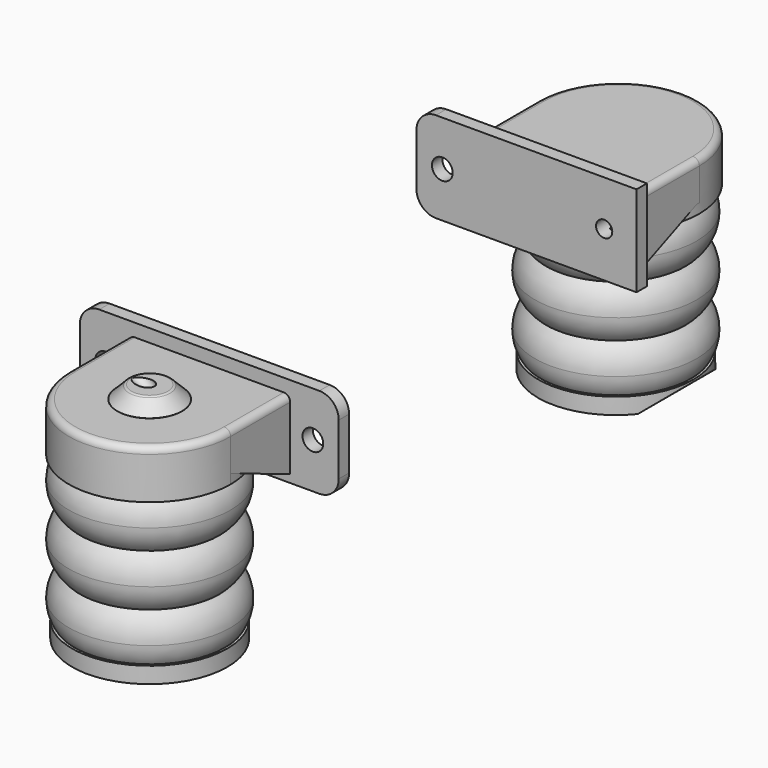
from build123d import *

# Parameters (mm, degrees)
CYLINDER1057_R           = 6
CYLINDER1057_DEPTH       = 36
CYLINDER1056_R           = 10
CYLINDER1056_DEPTH       = 2
CYLINDER1050_R           = 9
CYLINDER1050_DEPTH       = 5
CYLINDER1051_R           = 13
CYLINDER1051_DEPTH       = 1
CYLINDER1054_R           = 10.5
CYLINDER1054_DEPTH       = 3
TORUS004_R               = 5
TORUS005_R               = 5
TORUS003_R               = 5
TORUS001_R               = 5.5
TORUS002_R               = 5.5
TORUS_R                  = 5.5
CYLINDER1053_R           = 11.5
CYLINDER1053_DEPTH       = 1
CYLINDER1081_R           = 6
CYLINDER1081_DEPTH       = 36
CYLINDER1080_R           = 10
CYLINDER1080_DEPTH       = 2
CYLINDER1076_R           = 9
CYLINDER1076_DEPTH       = 5
CYLINDER1077_R           = 13
CYLINDER1077_DEPTH       = 1
CYLINDER1079_R           = 10.5
CYLINDER1079_DEPTH       = 3
TORUS012_R               = 5
TORUS013_R               = 5
TORUS011_R               = 5
TORUS009_R               = 5.5
TORUS010_R               = 5.5
TORUS008_R               = 5.5
CYLINDER1078_R           = 11.5
CYLINDER1078_DEPTH       = 1
CYLINDER1100_R           = 1.25
CYLINDER1100_DEPTH       = 12
CYLINDER1100_ROLL_ANGLE  = -90
CYLINDER1094_R           = 1.6
CYLINDER1094_DEPTH       = 12
CYLINDER1094_ROLL_ANGLE  = -90
CYLINDER1099_R           = 12.5
CYLINDER1099_DEPTH       = 2.5
BOX685_W                 = 1
BOX685_H                 = 13.5
BOX685_DEPTH             = 5
CHAMFER119_SIZE2         = 12
CHAMFER119_SIZE          = 4.99
BOX684_W                 = 1
BOX684_H                 = 13.5
BOX684_DEPTH             = 5
CHAMFER118_SIZE2         = 12
CHAMFER118_SIZE          = 4.99
CYLINDER1092_R           = 13
CYLINDER1092_DEPTH       = 6
CYLINDER1093_R           = 10.5
CYLINDER1093_DEPTH       = 5
CYLINDER1090_R           = 10.5
CYLINDER1090_DEPTH       = 3
CYLINDER1091_R           = 11.75
CYLINDER1091_DEPTH       = 1.5
CYLINDER1089_R           = 12.5
CYLINDER1089_DEPTH       = 6
BOX683_W                 = 34
BOX683_H                 = 2
BOX683_DEPTH             = 14
BOX682_W                 = 25
BOX682_H                 = 13.5
BOX682_DEPTH             = 6
CHAMFER120_SIZE          = 1.2
CYLINDER1097_R           = 8
CYLINDER1097_DEPTH       = 11
CYLINDER1096_R           = 13
CYLINDER1096_DEPTH       = 1
TORUS015_R               = 5.5
CYLINDER1098_R           = 12.5
CYLINDER1098_DEPTH       = 1.5
FILLET407_R              = 3
FILLET408_R              = 1
CYLINDER1115_R           = 1.25
CYLINDER1115_DEPTH       = 14
CYLINDER1111_R           = 13
CYLINDER1111_DEPTH       = 1
TORUS017_R               = 5.5
CYLINDER1112_R           = 12
CYLINDER1112_DEPTH       = 2.5
BOX690_W                 = 10
BOX690_H                 = 20
BOX690_DEPTH             = 10
BOX690_PITCH_ANGLE       = 50
CYLINDER1118_R           = 1.25
CYLINDER1118_DEPTH       = 14
CYLINDER1116_R           = 13
CYLINDER1116_DEPTH       = 1
TORUS018_R               = 5.5
CYLINDER1117_R           = 12
CYLINDER1117_DEPTH       = 2.5
TORUS019_R               = 1.1
TORUS019_ANGLE           = 45
TORUS019_ROLL_ANGLE      = 90.000019
TORUS019_PITCH_ANGLE     = -26.000031
TORUS019_PLACEMENT_ANGLE = -4e-06
TORUS020_R               = 0.6
TORUS020_ANGLE           = 90
TORUS020_ROLL_ANGLE      = 90
CYLINDER1075_R           = 12.5
CYLINDER1075_DEPTH       = 2.5
BOX680_W                 = 1
BOX680_H                 = 13.5
BOX680_DEPTH             = 5
CHAMFER117_SIZE2         = 12
CHAMFER117_SIZE          = 4.99
BOX679_W                 = 1
BOX679_H                 = 13.5
BOX679_DEPTH             = 5
CHAMFER116_SIZE2         = 12
CHAMFER116_SIZE          = 4.99
CYLINDER1070_R           = 1.6
CYLINDER1070_DEPTH       = 12
CYLINDER1070_ROLL_ANGLE  = -90
CYLINDER1071_R           = 1.6
CYLINDER1071_DEPTH       = 12
CYLINDER1071_ROLL_ANGLE  = -90
CYLINDER1069_R           = 10.5
CYLINDER1069_DEPTH       = 5
CYLINDER1068_R           = 13
CYLINDER1068_DEPTH       = 6
CYLINDER1066_R           = 10.5
CYLINDER1066_DEPTH       = 3
CYLINDER1067_R           = 11.75
CYLINDER1067_DEPTH       = 1.5
CYLINDER1065_R           = 12.5
CYLINDER1065_DEPTH       = 6
BOX678_W                 = 40
BOX678_H                 = 2
BOX678_DEPTH             = 14
BOX677_W                 = 25
BOX677_H                 = 13.5
BOX677_DEPTH             = 6
CHAMFER121_SIZE          = 1.2
FILLET409_R              = 3
FILLET410_R              = 1
CYLINDER1073_R           = 8
CYLINDER1073_DEPTH       = 11
CYLINDER1072_R           = 13
CYLINDER1072_DEPTH       = 1
TORUS007_R               = 5.5
CYLINDER1074_R           = 12.5
CYLINDER1074_DEPTH       = 1.5
CYLINDER1119_R           = 5
CYLINDER1119_DEPTH       = 2.5
CHAMFER_SIZE             = 1.99
FILLET_R                 = 0.5


with BuildPart() as cylinder1212:
    # Cylinder1057 → Cylinder1057 (new body)
    with BuildSketch(Plane(origin=(348.5, 40, -34.5), x_dir=(1, 0, 0), z_dir=(0, 0, 1))):
        Circle(CYLINDER1057_R)
    extrude(amount=CYLINDER1057_DEPTH)


with BuildPart() as cylinder1211:
    # Cylinder1056 → Cylinder1056 (new body)
    with BuildSketch(Plane(origin=(348.5, 40, -34.5), x_dir=(1, 0, 0), z_dir=(0, 0, 1))):
        Circle(CYLINDER1056_R)
    extrude(amount=CYLINDER1056_DEPTH)


with BuildPart() as cylinder1207:
    # Cylinder1050 → Cylinder1050 (new body)
    with BuildSketch(Plane(origin=(348.5, 40, -12), x_dir=(1, 0, 0), z_dir=(0, 0, 1))):
        Circle(CYLINDER1050_R)
    extrude(amount=CYLINDER1050_DEPTH)


with BuildPart() as cylinder1208:
    # Cylinder1051 → Cylinder1051 (new body)
    with BuildSketch(Plane(origin=(348.5, 40, -35.5), x_dir=(1, 0, 0), z_dir=(0, 0, 1))):
        Circle(CYLINDER1051_R)
    extrude(amount=CYLINDER1051_DEPTH)


with BuildPart() as cylinder1210:
    # Cylinder1054 → Cylinder1054 (new body)
    with BuildSketch(Plane(origin=(348.5, 40, -10), x_dir=(1, 0, 0), z_dir=(0, 0, 1))):
        Circle(CYLINDER1054_R)
    extrude(amount=CYLINDER1054_DEPTH)


with BuildPart() as torus004:
    # Torus004 → Torus004 (revolve)
    with BuildSketch(Plane(origin=(348.5, 40, -22), x_dir=(1, 0, 0), z_dir=(0, -1, 0))):
        with Locations((7, 0)):
            Circle(TORUS004_R)
    revolve(axis=Axis((348.5, 40, -22), (0, 0, 1)))


with BuildPart() as torus005:
    # Torus005 → Torus005 (revolve)
    with BuildSketch(Plane(origin=(348.5, 40, -14), x_dir=(1, 0, 0), z_dir=(0, -1, 0))):
        with Locations((7, 0)):
            Circle(TORUS005_R)
    revolve(axis=Axis((348.5, 40, -14), (0, 0, 1)))


with BuildPart() as fusion705:
    # Torus003 → Torus003 (revolve)
    with BuildSketch(Plane(origin=(348.5, 40, -30), x_dir=(1, 0, 0), z_dir=(0, -1, 0))):
        with Locations((7, 0)):
            Circle(TORUS003_R)
    revolve(axis=Axis((348.5, 40, -30), (0, 0, 1)))

    # Fusion705: union Torus004, Torus005
    add(torus004.part)
    add(torus005.part)


with BuildPart() as torus001:
    # Torus001 → Torus001 (revolve)
    with BuildSketch(Plane(origin=(348.5, 40, -22), x_dir=(1, 0, 0), z_dir=(0, -1, 0))):
        with Locations((7, 0)):
            Circle(TORUS001_R)
    revolve(axis=Axis((348.5, 40, -22), (0, 0, 1)))


with BuildPart() as torus002:
    # Torus002 → Torus002 (revolve)
    with BuildSketch(Plane(origin=(348.5, 40, -14), x_dir=(1, 0, 0), z_dir=(0, -1, 0))):
        with Locations((7, 0)):
            Circle(TORUS002_R)
    revolve(axis=Axis((348.5, 40, -14), (0, 0, 1)))


with BuildPart() as cut014210:
    # Torus → Torus (revolve)
    with BuildSketch(Plane(origin=(348.5, 40, -30), x_dir=(1, 0, 0), z_dir=(0, -1, 0))):
        with Locations((7, 0)):
            Circle(TORUS_R)
    revolve(axis=Axis((348.5, 40, -30), (0, 0, 1)))

    # Fusion704: union Torus001, Torus002
    add(torus001.part)
    add(torus002.part)

    # Cut014209: cut Fusion705
    add(fusion705.part, mode=Mode.SUBTRACT)

    # Fusion706: union Cylinder1210
    add(cylinder1210.part)

    # Cut014210: cut Cylinder1208
    add(cylinder1208.part, mode=Mode.SUBTRACT)


with BuildPart() as obj1:
    # Cylinder1053 → Cylinder1053 (new body)
    with BuildSketch(Plane(origin=(348.5, 40, -8), x_dir=(1, 0, 0), z_dir=(0, 0, 1))):
        Circle(CYLINDER1053_R)
    extrude(amount=CYLINDER1053_DEPTH)

    # Fusion707: union Cut014210
    add(cut014210.part)

    # Cut014211: cut Cylinder1207
    add(cylinder1207.part, mode=Mode.SUBTRACT)

    # Fusion708: union Cylinder1211
    add(cylinder1211.part)

    # Cut014212: cut Cylinder1212
    add(cylinder1212.part, mode=Mode.SUBTRACT)


with BuildPart() as cylinder1229:
    # Cylinder1081 → Cylinder1081 (new body)
    with BuildSketch(Plane(origin=(348.5, 40, -34.5), x_dir=(1, 0, 0), z_dir=(0, 0, 1))):
        Circle(CYLINDER1081_R)
    extrude(amount=CYLINDER1081_DEPTH)


with BuildPart() as cylinder1228:
    # Cylinder1080 → Cylinder1080 (new body)
    with BuildSketch(Plane(origin=(348.5, 40, -34.5), x_dir=(1, 0, 0), z_dir=(0, 0, 1))):
        Circle(CYLINDER1080_R)
    extrude(amount=CYLINDER1080_DEPTH)


with BuildPart() as cylinder1224:
    # Cylinder1076 → Cylinder1076 (new body)
    with BuildSketch(Plane(origin=(348.5, 40, -12), x_dir=(1, 0, 0), z_dir=(0, 0, 1))):
        Circle(CYLINDER1076_R)
    extrude(amount=CYLINDER1076_DEPTH)


with BuildPart() as cylinder1225:
    # Cylinder1077 → Cylinder1077 (new body)
    with BuildSketch(Plane(origin=(348.5, 40, -35.5), x_dir=(1, 0, 0), z_dir=(0, 0, 1))):
        Circle(CYLINDER1077_R)
    extrude(amount=CYLINDER1077_DEPTH)


with BuildPart() as cylinder1227:
    # Cylinder1079 → Cylinder1079 (new body)
    with BuildSketch(Plane(origin=(348.5, 40, -10), x_dir=(1, 0, 0), z_dir=(0, 0, 1))):
        Circle(CYLINDER1079_R)
    extrude(amount=CYLINDER1079_DEPTH)


with BuildPart() as torus012:
    # Torus012 → Torus012 (revolve)
    with BuildSketch(Plane(origin=(348.5, 40, -22), x_dir=(1, 0, 0), z_dir=(0, -1, 0))):
        with Locations((7, 0)):
            Circle(TORUS012_R)
    revolve(axis=Axis((348.5, 40, -22), (0, 0, 1)))


with BuildPart() as torus013:
    # Torus013 → Torus013 (revolve)
    with BuildSketch(Plane(origin=(348.5, 40, -14), x_dir=(1, 0, 0), z_dir=(0, -1, 0))):
        with Locations((7, 0)):
            Circle(TORUS013_R)
    revolve(axis=Axis((348.5, 40, -14), (0, 0, 1)))


with BuildPart() as fusion717:
    # Torus011 → Torus011 (revolve)
    with BuildSketch(Plane(origin=(348.5, 40, -30), x_dir=(1, 0, 0), z_dir=(0, -1, 0))):
        with Locations((7, 0)):
            Circle(TORUS011_R)
    revolve(axis=Axis((348.5, 40, -30), (0, 0, 1)))

    # Fusion717: union Torus012, Torus013
    add(torus012.part)
    add(torus013.part)


with BuildPart() as torus009:
    # Torus009 → Torus009 (revolve)
    with BuildSketch(Plane(origin=(348.5, 40, -22), x_dir=(1, 0, 0), z_dir=(0, -1, 0))):
        with Locations((7, 0)):
            Circle(TORUS009_R)
    revolve(axis=Axis((348.5, 40, -22), (0, 0, 1)))


with BuildPart() as torus010:
    # Torus010 → Torus010 (revolve)
    with BuildSketch(Plane(origin=(348.5, 40, -14), x_dir=(1, 0, 0), z_dir=(0, -1, 0))):
        with Locations((7, 0)):
            Circle(TORUS010_R)
    revolve(axis=Axis((348.5, 40, -14), (0, 0, 1)))


with BuildPart() as cut014226:
    # Torus008 → Torus008 (revolve)
    with BuildSketch(Plane(origin=(348.5, 40, -30), x_dir=(1, 0, 0), z_dir=(0, -1, 0))):
        with Locations((7, 0)):
            Circle(TORUS008_R)
    revolve(axis=Axis((348.5, 40, -30), (0, 0, 1)))

    # Fusion716: union Torus009, Torus010
    add(torus009.part)
    add(torus010.part)

    # Cut014225: cut Fusion717
    add(fusion717.part, mode=Mode.SUBTRACT)

    # Fusion718: union Cylinder1227
    add(cylinder1227.part)

    # Cut014226: cut Cylinder1225
    add(cylinder1225.part, mode=Mode.SUBTRACT)


with BuildPart() as obj2:
    # Cylinder1078 → Cylinder1078 (new body)
    with BuildSketch(Plane(origin=(348.5, 40, -8), x_dir=(1, 0, 0), z_dir=(0, 0, 1))):
        Circle(CYLINDER1078_R)
    extrude(amount=CYLINDER1078_DEPTH)

    # Fusion719: union Cut014226
    add(cut014226.part)

    # Cut014227: cut Cylinder1224
    add(cylinder1224.part, mode=Mode.SUBTRACT)

    # Fusion720: union Cylinder1228
    add(cylinder1228.part)

    # Cut014228: cut Cylinder1229
    add(cylinder1229.part, mode=Mode.SUBTRACT)


with BuildPart() as obj2_1:
    # Cut014228 placement: moved
    add(obj2.part.moved(Location((0, 90, 0))))


with BuildPart() as cylinder1251:
    # Cylinder1100 → Cylinder1100 (new body)
    with BuildSketch(Plane.XY):
        Circle(CYLINDER1100_R)
    extrude(amount=CYLINDER1100_DEPTH)


with BuildPart() as cylinder1251_1:
    # Cylinder1100 roll: moved
    add(cylinder1251.part.rotate(Axis((0, 0, 0), (1, 0, 0)), CYLINDER1100_ROLL_ANGLE))


with BuildPart() as cylinder1251_2:
    # Cylinder1100 placement: moved
    add(cylinder1251_1.part.moved(Location((357.5, 109, -8))))


with BuildPart() as fusion729:
    # Cylinder1094 → Cylinder1094 (new body)
    with BuildSketch(Plane.XY):
        Circle(CYLINDER1094_R)
    extrude(amount=CYLINDER1094_DEPTH)


with BuildPart() as fusion729_1:
    # Cylinder1094 roll: moved
    add(fusion729.part.rotate(Axis((0, 0, 0), (1, 0, 0)), CYLINDER1094_ROLL_ANGLE))


with BuildPart() as fusion729_2:
    # Cylinder1094 placement: moved
    add(fusion729_1.part.moved(Location((332.5, 109, -8))))

    # Fusion729: union Cylinder1251
    add(cylinder1251_2.part)


with BuildPart() as cylinder1250:
    # Cylinder1099 → Cylinder1099 (new body)
    with BuildSketch(Plane(origin=(348.5, 40, -12.5), x_dir=(1, 0, 0), z_dir=(0, 0, 1))):
        Circle(CYLINDER1099_R)
    extrude(amount=CYLINDER1099_DEPTH)


with BuildPart() as chamfer119:
    # Box685 → Box685 (new body)
    with BuildSketch(Plane(origin=(336.5, 40, -15), x_dir=(1, 0, 0), z_dir=(0, 0, 1))):
        with Locations((0.5, 6.75)):
            Rectangle(BOX685_W, BOX685_H)
    extrude(amount=BOX685_DEPTH)

    # Chamfer119
    chamfer119_edges = [chamfer119.edges().sort_by_distance(p)[0] for p in [
        (337, 40, -15),
    ]]
    chamfer119_side = chamfer119.faces().sort_by_distance((337, 40, -12.5))[0]
    chamfer(chamfer119_edges, length=CHAMFER119_SIZE, length2=CHAMFER119_SIZE2, reference=chamfer119_side)


with BuildPart() as chamfer119_1:
    # Chamfer119 placement: moved
    add(chamfer119.part.moved(Location((24, 0, 0))))


with BuildPart() as cut014241:
    # Box684 → Box684 (new body)
    with BuildSketch(Plane(origin=(336.5, 40, -15), x_dir=(1, 0, 0), z_dir=(0, 0, 1))):
        with Locations((0.5, 6.75)):
            Rectangle(BOX684_W, BOX684_H)
    extrude(amount=BOX684_DEPTH)

    # Chamfer118
    chamfer118_edges = [cut014241.edges().sort_by_distance(p)[0] for p in [
        (337, 40, -15),
    ]]
    chamfer118_side = cut014241.faces().sort_by_distance((337, 40, -12.5))[0]
    chamfer(chamfer118_edges, length=CHAMFER118_SIZE, length2=CHAMFER118_SIZE2, reference=chamfer118_side)

    # Fusion726: union Chamfer119
    add(chamfer119_1.part)


with BuildPart() as cut014241_1:
    # Fusion726 placement: moved
    add(cut014241.part.moved(Location((-0.5, 0, 0))))

    # Cut014241: cut Cylinder1250
    add(cylinder1250.part, mode=Mode.SUBTRACT)


with BuildPart() as part_mirroring093:
    # Part__Mirroring093: instance of Cut014241
    add(cut014241_1.part.mirror(Plane(origin=(0, 0, 0), x_dir=(1, 0, 0), z_dir=(0, 1, 0))))


with BuildPart() as part_mirroring093_1:
    # Part__Mirroring093 placement: moved
    add(part_mirroring093.part.moved(Location((0, 170, 1))))


with BuildPart() as cylinder1243:
    # Cylinder1092 → Cylinder1092 (new body)
    with BuildSketch(Plane(origin=(348.5, 130.5, -15), x_dir=(1, 0, 0), z_dir=(0, 0, 1))):
        Circle(CYLINDER1092_R)
    extrude(amount=CYLINDER1092_DEPTH)


with BuildPart() as cylinder1244:
    # Cylinder1093 → Cylinder1093 (new body)
    with BuildSketch(Plane(origin=(348.5, 130.5, -8.5), x_dir=(1, 0, 0), z_dir=(0, 0, 1))):
        Circle(CYLINDER1093_R)
    extrude(amount=CYLINDER1093_DEPTH)


with BuildPart() as cylinder1241:
    # Cylinder1090 → Cylinder1090 (new body)
    with BuildSketch(Plane(origin=(348.5, 40, -10), x_dir=(1, 0, 0), z_dir=(0, 0, 1))):
        Circle(CYLINDER1090_R)
    extrude(amount=CYLINDER1090_DEPTH)


with BuildPart() as fusion723:
    # Cylinder1091 → Cylinder1091 (new body)
    with BuildSketch(Plane(origin=(348.5, 40, -8.25), x_dir=(1, 0, 0), z_dir=(0, 0, 1))):
        Circle(CYLINDER1091_R)
    extrude(amount=CYLINDER1091_DEPTH)

    # Fusion723: union Cylinder1241
    add(cylinder1241.part)


with BuildPart() as fusion723_1:
    # Fusion723 placement: moved
    add(fusion723.part.moved(Location((0, 90.5, 1))))


with BuildPart() as cylinder1240:
    # Cylinder1089 → Cylinder1089 (new body)
    with BuildSketch(Plane(origin=(348.5, 130.5, -9), x_dir=(1, 0, 0), z_dir=(0, 0, 1))):
        Circle(CYLINDER1089_R)
    extrude(amount=CYLINDER1089_DEPTH)


with BuildPart() as cube874:
    # Box683 → Box683 (new body)
    with BuildSketch(Plane(origin=(328.5, 116.5, -15), x_dir=(1, 0, 0), z_dir=(0, 0, 1))):
        with Locations((17, 1)):
            Rectangle(BOX683_W, BOX683_H)
    extrude(amount=BOX683_DEPTH)


with BuildPart() as cut014252:
    # Box682 → Box682 (new body)
    with BuildSketch(Plane(origin=(336, 117, -9), x_dir=(1, 0, 0), z_dir=(0, 0, 1))):
        with Locations((12.5, 6.75)):
            Rectangle(BOX682_W, BOX682_H)
    extrude(amount=BOX682_DEPTH)

    # Fusion732: union Cylinder1240, Cube874
    add(cylinder1240.part)
    add(cube874.part)

    # Cut014250: cut Fusion723
    add(fusion723_1.part, mode=Mode.SUBTRACT)

    # Cut014251: cut Cylinder1244
    add(cylinder1244.part, mode=Mode.SUBTRACT)

    # Chamfer120
    chamfer120_edges = [cut014252.edges().sort_by_distance(p)[0] for p in [
        (338, 130.5, -7.25),
    ]]
    chamfer(chamfer120_edges, length=CHAMFER120_SIZE)

    # Cut014252: cut Cylinder1243
    add(cylinder1243.part, mode=Mode.SUBTRACT)


with BuildPart() as cylinder1248:
    # Cylinder1097 → Cylinder1097 (new body)
    with BuildSketch(Plane(origin=(348.5, 40, -13.5), x_dir=(1, 0, 0), z_dir=(0, 0, 1))):
        Circle(CYLINDER1097_R)
    extrude(amount=CYLINDER1097_DEPTH)


with BuildPart() as cylinder1247:
    # Cylinder1096 → Cylinder1096 (new body)
    with BuildSketch(Plane(origin=(348.5, 40, -25.5), x_dir=(1, 0, 0), z_dir=(0, 0, 1))):
        Circle(CYLINDER1096_R)
    extrude(amount=CYLINDER1096_DEPTH)


with BuildPart() as cut014238:
    # Torus015 → Torus015 (revolve)
    with BuildSketch(Plane(origin=(348.5, 40, -30), x_dir=(1, 0, 0), z_dir=(0, -1, 0))):
        with Locations((7, 0)):
            Circle(TORUS015_R)
    revolve(axis=Axis((348.5, 40, -30), (0, 0, 1)))

    # Cut014238: cut Cylinder1247
    add(cylinder1247.part, mode=Mode.SUBTRACT)


with BuildPart() as cut014238_1:
    # Cut014238 placement: moved
    add(cut014238.part.moved(Location((0, 0, 16))))


with BuildPart() as fillet408:
    # Cylinder1098 → Cylinder1098 (new body)
    with BuildSketch(Plane(origin=(348.5, 40, -11.5), x_dir=(1, 0, 0), z_dir=(0, 0, 1))):
        Circle(CYLINDER1098_R)
    extrude(amount=CYLINDER1098_DEPTH)

    # Cut014239: cut Cut014238
    add(cut014238_1.part, mode=Mode.SUBTRACT)

    # Cut014240: cut Cylinder1248
    add(cylinder1248.part, mode=Mode.SUBTRACT)


with BuildPart() as fillet408_1:
    # Cut014240 placement: moved
    add(fillet408.part.moved(Location((0, 90.5, 1))))

    # Fusion733: union Part__Mirroring093, Cut014252
    add(part_mirroring093_1.part)
    add(cut014252.part)

    # Cut014253: cut Fusion729
    add(fusion729_2.part, mode=Mode.SUBTRACT)

    # Fillet407
    fillet407_edges = [fillet408_1.edges().sort_by_distance(p)[0] for p in [
        (328.5, 117.5, -15),
        (328.5, 117.5, -1),
    ]]
    fillet(fillet407_edges, radius=FILLET407_R)

    # Fillet408
    fillet408_edges = [fillet408_1.edges().sort_by_distance(p)[0] for p in [
        (348.5, 143, -3),
    ]]
    fillet(fillet408_edges, radius=FILLET408_R)


with BuildPart() as cylinder1282:
    # Cylinder1115 → Cylinder1115 (new body)
    with BuildSketch(Plane(origin=(348.5, 40, -35.5), x_dir=(1, 0, 0), z_dir=(0, 0, 1))):
        Circle(CYLINDER1115_R)
    extrude(amount=CYLINDER1115_DEPTH)


with BuildPart() as cone:
    # Cone → Cone (revolve)
    with BuildSketch(Plane(origin=(348.5, 40, -34.5), x_dir=(1, 0, 0), z_dir=(0, -1, 0))):
        Polygon((0, 0), (5.5, 0), (4, 13), (0, 13), align=None)
    revolve(axis=Axis((348.5, 40, -34.5), (0, 0, 1)))


with BuildPart() as cylinder1278:
    # Cylinder1111 → Cylinder1111 (new body)
    with BuildSketch(Plane(origin=(348.5, 40, -35.5), x_dir=(1, 0, 0), z_dir=(0, 0, 1))):
        Circle(CYLINDER1111_R)
    extrude(amount=CYLINDER1111_DEPTH)


with BuildPart() as cut014264:
    # Torus017 → Torus017 (revolve)
    with BuildSketch(Plane(origin=(348.5, 40, -30), x_dir=(1, 0, 0), z_dir=(0, -1, 0))):
        with Locations((7, 0)):
            Circle(TORUS017_R)
    revolve(axis=Axis((348.5, 40, -30), (0, 0, 1)))

    # Cut014264: cut Cylinder1278
    add(cylinder1278.part, mode=Mode.SUBTRACT)


with BuildPart() as obj1_plate:
    # Cylinder1112 → Cylinder1112 (new body)
    with BuildSketch(Plane(origin=(348.5, 40, -35.5), x_dir=(1, 0, 0), z_dir=(0, 0, 1))):
        Circle(CYLINDER1112_R)
    extrude(amount=CYLINDER1112_DEPTH)

    # Cut014265: cut Cut014264
    add(cut014264.part, mode=Mode.SUBTRACT)

    # Fusion739: union Cone
    add(cone.part)

    # Cut014266: cut Cylinder1282
    add(cylinder1282.part, mode=Mode.SUBTRACT)


with BuildPart() as cube881:
    # Box690 → Box690 (new body)
    with BuildSketch(Plane.XY):
        with Locations((5, 10)):
            Rectangle(BOX690_W, BOX690_H)
    extrude(amount=BOX690_DEPTH)


with BuildPart() as cube881_1:
    # Box690 pitch: moved
    add(cube881.part.rotate(Axis((0, 0, 0), (0, 1, 0)), BOX690_PITCH_ANGLE))


with BuildPart() as cube881_2:
    # Box690 placement: moved
    add(cube881_1.part.moved(Location((355.5, 121, -37.5))))


with BuildPart() as cylinder1288:
    # Cylinder1118 → Cylinder1118 (new body)
    with BuildSketch(Plane(origin=(348.5, 40, -35.5), x_dir=(1, 0, 0), z_dir=(0, 0, 1))):
        Circle(CYLINDER1118_R)
    extrude(amount=CYLINDER1118_DEPTH)


with BuildPart() as cone001:
    # Cone001 → Cone001 (revolve)
    with BuildSketch(Plane(origin=(348.5, 40, -34.5), x_dir=(1, 0, 0), z_dir=(0, -1, 0))):
        Polygon((0, 0), (5.5, 0), (4, 13), (0, 13), align=None)
    revolve(axis=Axis((348.5, 40, -34.5), (0, 0, 1)))


with BuildPart() as cylinder1286:
    # Cylinder1116 → Cylinder1116 (new body)
    with BuildSketch(Plane(origin=(348.5, 40, -35.5), x_dir=(1, 0, 0), z_dir=(0, 0, 1))):
        Circle(CYLINDER1116_R)
    extrude(amount=CYLINDER1116_DEPTH)


with BuildPart() as cut014267:
    # Torus018 → Torus018 (revolve)
    with BuildSketch(Plane(origin=(348.5, 40, -30), x_dir=(1, 0, 0), z_dir=(0, -1, 0))):
        with Locations((7, 0)):
            Circle(TORUS018_R)
    revolve(axis=Axis((348.5, 40, -30), (0, 0, 1)))

    # Cut014267: cut Cylinder1286
    add(cylinder1286.part, mode=Mode.SUBTRACT)


with BuildPart() as obj2_plate:
    # Cylinder1117 → Cylinder1117 (new body)
    with BuildSketch(Plane(origin=(348.5, 40, -35.5), x_dir=(1, 0, 0), z_dir=(0, 0, 1))):
        Circle(CYLINDER1117_R)
    extrude(amount=CYLINDER1117_DEPTH)

    # Cut014268: cut Cut014267
    add(cut014267.part, mode=Mode.SUBTRACT)

    # Fusion740: union Cone001
    add(cone001.part)

    # Cut014269: cut Cylinder1288
    add(cylinder1288.part, mode=Mode.SUBTRACT)


with BuildPart() as obj2_plate_1:
    # Cut014269 placement: moved
    add(obj2_plate.part.moved(Location((0, 90, 0))))

    # Cut014270: cut Cube881
    add(cube881_2.part, mode=Mode.SUBTRACT)


with BuildPart() as torus019:
    # Torus019 → Torus019 (revolve)
    with BuildSketch(Plane.XZ):
        with Locations((5.5, 0)):
            Circle(TORUS019_R)
    revolve(axis=Axis((0, 0, 0), (0, 0, 1)), revolution_arc=TORUS019_ANGLE)


with BuildPart() as torus019_1:
    # Torus019 roll: moved
    add(torus019.part.rotate(Axis((0, 0, 0), (1, 0, 0)), TORUS019_ROLL_ANGLE))


with BuildPart() as torus019_2:
    # Torus019 pitch: moved
    add(torus019_1.part.rotate(Axis((0, 0, 0), (0, 1, 0)), TORUS019_PITCH_ANGLE))


with BuildPart() as torus019_3:
    # Torus019 placement: moved
    add(torus019_2.part.moved(Location((344, 40, -5))).rotate(Axis((344, 40, -5), (0, 0, 1)), TORUS019_PLACEMENT_ANGLE))


with BuildPart() as fusion:
    # Torus020 → Torus020 (revolve)
    with BuildSketch(Plane.XZ):
        with Locations((5.5, 0)):
            Circle(TORUS020_R)
    revolve(axis=Axis((0, 0, 0), (0, 0, 1)), revolution_arc=TORUS020_ANGLE)


with BuildPart() as fusion_1:
    # Torus020 roll: moved
    add(fusion.part.rotate(Axis((0, 0, 0), (1, 0, 0)), TORUS020_ROLL_ANGLE))


with BuildPart() as fusion_2:
    # Torus020 placement: moved
    add(fusion_1.part.moved(Location((344, 40, -5))))

    # Fusion: union Torus019
    add(torus019_3.part)


with BuildPart() as cylinder1223:
    # Cylinder1075 → Cylinder1075 (new body)
    with BuildSketch(Plane(origin=(348.5, 40, -12.5), x_dir=(1, 0, 0), z_dir=(0, 0, 1))):
        Circle(CYLINDER1075_R)
    extrude(amount=CYLINDER1075_DEPTH)


with BuildPart() as chamfer117:
    # Box680 → Box680 (new body)
    with BuildSketch(Plane(origin=(336.5, 40, -15), x_dir=(1, 0, 0), z_dir=(0, 0, 1))):
        with Locations((0.5, 6.75)):
            Rectangle(BOX680_W, BOX680_H)
    extrude(amount=BOX680_DEPTH)

    # Chamfer117
    chamfer117_edges = [chamfer117.edges().sort_by_distance(p)[0] for p in [
        (337, 40, -15),
    ]]
    chamfer117_side = chamfer117.faces().sort_by_distance((337, 40, -12.5))[0]
    chamfer(chamfer117_edges, length=CHAMFER117_SIZE, length2=CHAMFER117_SIZE2, reference=chamfer117_side)


with BuildPart() as chamfer117_1:
    # Chamfer117 placement: moved
    add(chamfer117.part.moved(Location((24, 0, 0))))


with BuildPart() as cut014224:
    # Box679 → Box679 (new body)
    with BuildSketch(Plane(origin=(336.5, 40, -15), x_dir=(1, 0, 0), z_dir=(0, 0, 1))):
        with Locations((0.5, 6.75)):
            Rectangle(BOX679_W, BOX679_H)
    extrude(amount=BOX679_DEPTH)

    # Chamfer116
    chamfer116_edges = [cut014224.edges().sort_by_distance(p)[0] for p in [
        (337, 40, -15),
    ]]
    chamfer116_side = cut014224.faces().sort_by_distance((337, 40, -12.5))[0]
    chamfer(chamfer116_edges, length=CHAMFER116_SIZE, length2=CHAMFER116_SIZE2, reference=chamfer116_side)

    # Fusion714: union Chamfer117
    add(chamfer117_1.part)


with BuildPart() as cut014224_1:
    # Fusion714 placement: moved
    add(cut014224.part.moved(Location((-0.5, 0, 0))))

    # Cut014224: cut Cylinder1223
    add(cylinder1223.part, mode=Mode.SUBTRACT)


with BuildPart() as cut014224_2:
    # Cut014224 placement: moved
    add(cut014224_1.part.moved(Location((0, 0, 1))))


with BuildPart() as cylinder1218:
    # Cylinder1070 → Cylinder1070 (new body)
    with BuildSketch(Plane.XY):
        Circle(CYLINDER1070_R)
    extrude(amount=CYLINDER1070_DEPTH)


with BuildPart() as cylinder1218_1:
    # Cylinder1070 roll: moved
    add(cylinder1218.part.rotate(Axis((0, 0, 0), (1, 0, 0)), CYLINDER1070_ROLL_ANGLE))


with BuildPart() as cylinder1218_2:
    # Cylinder1070 placement: moved
    add(cylinder1218_1.part.moved(Location((332.5, 44, -8))))


with BuildPart() as fusion713:
    # Cylinder1071 → Cylinder1071 (new body)
    with BuildSketch(Plane.XY):
        Circle(CYLINDER1071_R)
    extrude(amount=CYLINDER1071_DEPTH)


with BuildPart() as fusion713_1:
    # Cylinder1071 roll: moved
    add(fusion713.part.rotate(Axis((0, 0, 0), (1, 0, 0)), CYLINDER1071_ROLL_ANGLE))


with BuildPart() as fusion713_2:
    # Cylinder1071 placement: moved
    add(fusion713_1.part.moved(Location((364.5, 44, -8))))

    # Fusion713: union Cylinder1218
    add(cylinder1218_2.part)


with BuildPart() as cylinder1217:
    # Cylinder1069 → Cylinder1069 (new body)
    with BuildSketch(Plane(origin=(348.5, 40, -8.5), x_dir=(1, 0, 0), z_dir=(0, 0, 1))):
        Circle(CYLINDER1069_R)
    extrude(amount=CYLINDER1069_DEPTH)


with BuildPart() as cylinder1216:
    # Cylinder1068 → Cylinder1068 (new body)
    with BuildSketch(Plane(origin=(348.5, 40, -15), x_dir=(1, 0, 0), z_dir=(0, 0, 1))):
        Circle(CYLINDER1068_R)
    extrude(amount=CYLINDER1068_DEPTH)


with BuildPart() as cylinder1214:
    # Cylinder1066 → Cylinder1066 (new body)
    with BuildSketch(Plane(origin=(348.5, 40, -10), x_dir=(1, 0, 0), z_dir=(0, 0, 1))):
        Circle(CYLINDER1066_R)
    extrude(amount=CYLINDER1066_DEPTH)


with BuildPart() as fusion711:
    # Cylinder1067 → Cylinder1067 (new body)
    with BuildSketch(Plane(origin=(348.5, 40, -8.25), x_dir=(1, 0, 0), z_dir=(0, 0, 1))):
        Circle(CYLINDER1067_R)
    extrude(amount=CYLINDER1067_DEPTH)

    # Fusion711: union Cylinder1214
    add(cylinder1214.part)


with BuildPart() as fusion711_1:
    # Fusion711 placement: moved
    add(fusion711.part.moved(Location((0, 0, 1))))


with BuildPart() as cylinder1213:
    # Cylinder1065 → Cylinder1065 (new body)
    with BuildSketch(Plane(origin=(348.5, 40, -9), x_dir=(1, 0, 0), z_dir=(0, 0, 1))):
        Circle(CYLINDER1065_R)
    extrude(amount=CYLINDER1065_DEPTH)


with BuildPart() as cube869:
    # Box678 → Box678 (new body)
    with BuildSketch(Plane(origin=(328.5, 51.5, -15), x_dir=(1, 0, 0), z_dir=(0, 0, 1))):
        with Locations((20, 1)):
            Rectangle(BOX678_W, BOX678_H)
    extrude(amount=BOX678_DEPTH)


with BuildPart() as fillet410:
    # Box677 → Box677 (new body)
    with BuildSketch(Plane(origin=(336, 40, -9), x_dir=(1, 0, 0), z_dir=(0, 0, 1))):
        with Locations((12.5, 6.75)):
            Rectangle(BOX677_W, BOX677_H)
    extrude(amount=BOX677_DEPTH)

    # Fusion734: union Cylinder1213, Cube869
    add(cylinder1213.part)
    add(cube869.part)

    # Cut014254: cut Fusion711
    add(fusion711_1.part, mode=Mode.SUBTRACT)

    # Chamfer121
    chamfer121_edges = [fillet410.edges().sort_by_distance(p)[0] for p in [
        (338, 40, -7.25),
    ]]
    chamfer(chamfer121_edges, length=CHAMFER121_SIZE)

    # Cut014255: cut Cylinder1216
    add(cylinder1216.part, mode=Mode.SUBTRACT)

    # Cut014256: cut Cylinder1217
    add(cylinder1217.part, mode=Mode.SUBTRACT)

    # Cut014257: cut Fusion713
    add(fusion713_2.part, mode=Mode.SUBTRACT)

    # Fillet409
    fillet409_edges = [fillet410.edges().sort_by_distance(p)[0] for p in [
        (368.5, 52.5, -15),
        (328.5, 52.5, -15),
        (328.5, 52.5, -1),
        (368.5, 52.5, -1),
    ]]
    fillet(fillet409_edges, radius=FILLET409_R)

    # Fillet410
    fillet410_edges = [fillet410.edges().sort_by_distance(p)[0] for p in [
        (348.5, 27.5, -3),
    ]]
    fillet(fillet410_edges, radius=FILLET410_R)


with BuildPart() as cylinder1221:
    # Cylinder1073 → Cylinder1073 (new body)
    with BuildSketch(Plane(origin=(348.5, 40, -13.5), x_dir=(1, 0, 0), z_dir=(0, 0, 1))):
        Circle(CYLINDER1073_R)
    extrude(amount=CYLINDER1073_DEPTH)


with BuildPart() as cylinder1220:
    # Cylinder1072 → Cylinder1072 (new body)
    with BuildSketch(Plane(origin=(348.5, 40, -25.5), x_dir=(1, 0, 0), z_dir=(0, 0, 1))):
        Circle(CYLINDER1072_R)
    extrude(amount=CYLINDER1072_DEPTH)


with BuildPart() as cut014221:
    # Torus007 → Torus007 (revolve)
    with BuildSketch(Plane(origin=(348.5, 40, -30), x_dir=(1, 0, 0), z_dir=(0, -1, 0))):
        with Locations((7, 0)):
            Circle(TORUS007_R)
    revolve(axis=Axis((348.5, 40, -30), (0, 0, 1)))

    # Cut014221: cut Cylinder1220
    add(cylinder1220.part, mode=Mode.SUBTRACT)


with BuildPart() as cut014221_1:
    # Cut014221 placement: moved
    add(cut014221.part.moved(Location((0, 0, 16))))


with BuildPart() as fusion735:
    # Cylinder1074 → Cylinder1074 (new body)
    with BuildSketch(Plane(origin=(348.5, 40, -11.5), x_dir=(1, 0, 0), z_dir=(0, 0, 1))):
        Circle(CYLINDER1074_R)
    extrude(amount=CYLINDER1074_DEPTH)

    # Cut014222: cut Cut014221
    add(cut014221_1.part, mode=Mode.SUBTRACT)

    # Cut014223: cut Cylinder1221
    add(cylinder1221.part, mode=Mode.SUBTRACT)


with BuildPart() as fusion735_1:
    # Cut014223 placement: moved
    add(fusion735.part.moved(Location((0, 0, 1))))

    # Fusion735: union Cut014224, Fillet410
    add(cut014224_2.part)
    add(fillet410.part)


with BuildPart() as fillet_body:
    # Cylinder1119 → Cylinder1119 (new body)
    with BuildSketch(Plane(origin=(348.5, 40, -3.5), x_dir=(1, 0, 0), z_dir=(0, 0, 1))):
        Circle(CYLINDER1119_R)
    extrude(amount=CYLINDER1119_DEPTH)

    # Fusion741: union Fusion735
    add(fusion735_1.part)

    # Cut: cut Fusion
    add(fusion_2.part, mode=Mode.SUBTRACT)

    # Chamfer
    chamfer_edges = [fillet_body.edges().sort_by_distance(p)[0] for p in [
        (343.5, 40, -1),
    ]]
    chamfer(chamfer_edges, length=CHAMFER_SIZE)

    # Fillet
    fillet_edges = [fillet_body.edges().sort_by_distance(p)[0] for p in [
        (345.49, 40, -1),
    ]]
    fillet(fillet_edges, radius=FILLET_R)


solid = Compound([obj1.part, obj2_1.part, fillet408_1.part, obj1_plate.part, obj2_plate_1.part, fillet_body.part])
